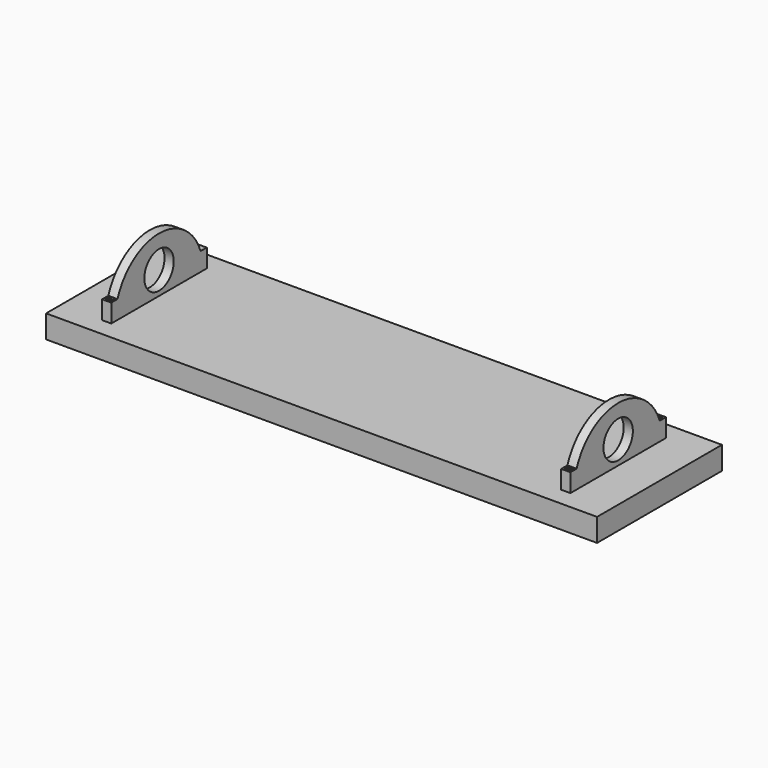
from build123d import *

# Parameters (mm, degrees)
F0_W              = 600
F0_H              = 170
F1_DEPTH          = 25
F3_DEPTH          = 5
F6_R              = 20
F7_DEPTH          = 10
F8_R              = 20
F9_DEPTH          = 10
F11_D             = 5
F11_DEPTH         = 30
F11_CSINK_D       = 7
F11_CSINK_ANGLE   = 90
F11_TIP           = 1.5021515476
F11_2_D           = 5
F11_2_DEPTH       = 30
F11_2_CSINK_D     = 7
F11_2_CSINK_ANGLE = 90
F11_2_TIP         = 1.5021515476
F12_R             = 3.5
F13_DEPTH         = 45
F16_D             = 5
F16_DEPTH         = 30
F16_CSINK_D       = 7
F16_CSINK_ANGLE   = 90
F16_TIP           = 1.5021515476
F16_2_D           = 5
F16_2_DEPTH       = 30
F16_2_CSINK_D     = 7
F16_2_CSINK_ANGLE = 90
F16_2_TIP         = 1.5021515476


with BuildPart() as f1:
    # F0 (on Top) → F1 (new body)
    with BuildSketch(Plane.XY):
        Rectangle(F0_W, F0_H)
    extrude(amount=F1_DEPTH)

    # F11
    with Locations(Plane.XY.offset(45)):
        with Locations((-250, 60.5685424949), (-250, -60.5685424949)):
            CounterSinkHole(F11_D / 2, F11_CSINK_D / 2, depth=F11_DEPTH, counter_sink_angle=F11_CSINK_ANGLE)
            with Locations((0, 0, -(F11_DEPTH + F11_TIP / 2))):  # 118° drill point
                Cone(0, F11_D / 2, F11_TIP, mode=Mode.SUBTRACT)


with BuildPart() as f3:
    # F2 (on Right) → F3 (new body, symmetric)
    with BuildSketch(Plane.YZ):
        with BuildLine():
            Line((-65, 25), (65, 25))
            Line((65, 25), (65, 45))
            Line((65, 45), (56.5685424949, 45))
            ThreePointArc((56.5685424949, 45), (0, 85), (-56.5685424949, 45))
            Line((-56.5685424949, 45), (-65, 45))
            Line((-65, 45), (-65, 25))
        make_face()
    extrude(amount=F3_DEPTH, both=True)


with BuildPart() as f4_1:
    # F4: copy of F3
    add(f3.part.moved(Location((-250, 0, 0))))

    # F6 (on face) → F7 (cut)
    with BuildSketch(Plane(origin=(-255, 0, 0), x_dir=(0, -1, 0), z_dir=(-1, 0, 0))):
        with Locations((0, 50)):
            Circle(F6_R)
    extrude(amount=-F7_DEPTH, mode=Mode.SUBTRACT)

    # F11#2
    with Locations(Plane.XY.offset(45)):
        with Locations((-250, 60.5685424949), (-250, -60.5685424949)):
            CounterSinkHole(F11_2_D / 2, F11_2_CSINK_D / 2, depth=F11_2_DEPTH, counter_sink_angle=F11_2_CSINK_ANGLE)
            with Locations((0, 0, -(F11_2_DEPTH + F11_2_TIP / 2))):  # 118° drill point
                Cone(0, F11_2_D / 2, F11_2_TIP, mode=Mode.SUBTRACT)


with BuildPart() as f3_1:
    # F5: moved
    add(f3.part.moved(Location((250, 0, 0))))

    # F8 (on face) → F9 (cut)
    with BuildSketch(Plane.YZ.offset(255)):
        with Locations((0, 50)):
            Circle(F8_R)
    extrude(amount=-F9_DEPTH, mode=Mode.SUBTRACT)

    # F16#2
    with Locations(Plane.XY.offset(45)):
        with Locations((250, 60.5685424949), (250, -60.5685424949)):
            CounterSinkHole(F16_2_D / 2, F16_2_CSINK_D / 2, depth=F16_2_DEPTH, counter_sink_angle=F16_2_CSINK_ANGLE)
            with Locations((0, 0, -(F16_2_DEPTH + F16_2_TIP / 2))):  # 118° drill point
                Cone(0, F16_2_D / 2, F16_2_TIP, mode=Mode.SUBTRACT)


with BuildPart() as f13:
    # F12 (on face) → F13 (new body, through all)
    with BuildSketch(Plane.XY.offset(45)):
        with Locations((-250, 60.5685424949)):
            Circle(F12_R)
    extrude(amount=-F13_DEPTH)

    # F14: cut F1, F4_1
    add(f1.part, mode=Mode.SUBTRACT)
    add(f4_1.part, mode=Mode.SUBTRACT)


with BuildPart() as f1_1:
    add(f1.part)

    # F16
    with Locations(Plane.XY.offset(45)):
        with Locations((250, 60.5685424949), (250, -60.5685424949)):
            CounterSinkHole(F16_D / 2, F16_CSINK_D / 2, depth=F16_DEPTH, counter_sink_angle=F16_CSINK_ANGLE)
            with Locations((0, 0, -(F16_DEPTH + F16_TIP / 2))):  # 118° drill point
                Cone(0, F16_D / 2, F16_TIP, mode=Mode.SUBTRACT)


solid = Compound([f4_1.part, f3_1.part, f13.part, f1_1.part])
